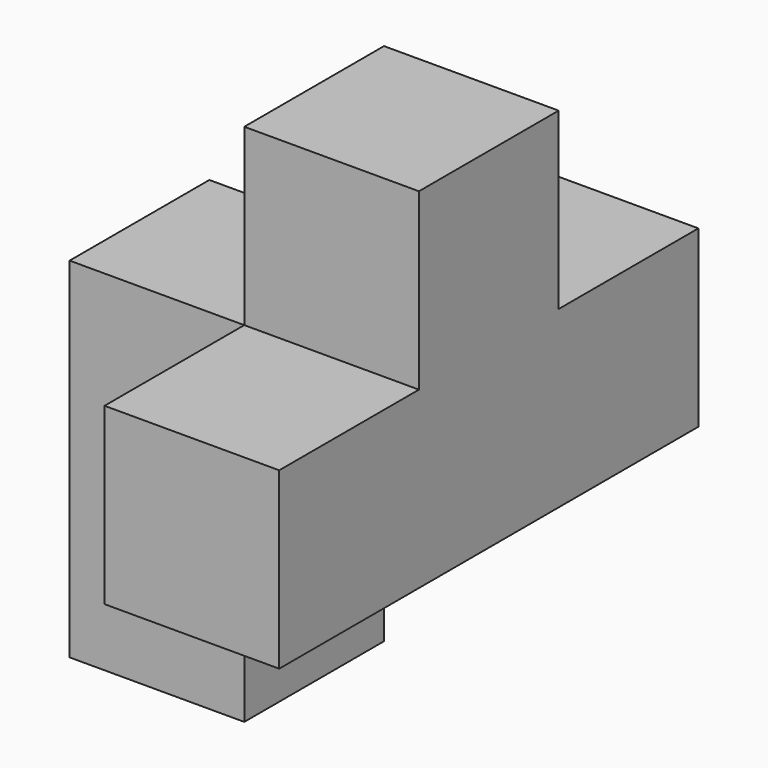
from build123d import *

# Parameters (mm, degrees)
F0_W     = 19.05
F0_H     = 19.05
F1_DEPTH = 9.525
F2_DEPTH = 28.575


with BuildPart() as f1:
    # F0 (on Front) → F1 (new body, symmetric)
    with BuildSketch(Plane.XZ):
        with Locations((-59.03418, 31.98006)):
            Rectangle(F0_W, F0_H)
        with Locations((-59.03418, 51.03006)):
            Rectangle(F0_W, F0_H)
        with Locations((-39.98418, 70.08006)):
            Rectangle(F0_W, F0_H)
    extrude(amount=F1_DEPTH, both=True)

    # F0 (on Front) → F2 (join, symmetric)
    with BuildSketch(Plane.XZ):
        with Locations((-39.98418, 51.03006)):
            Rectangle(F0_W, F0_H)
    extrude(amount=F2_DEPTH, both=True)


solid = f1.part
